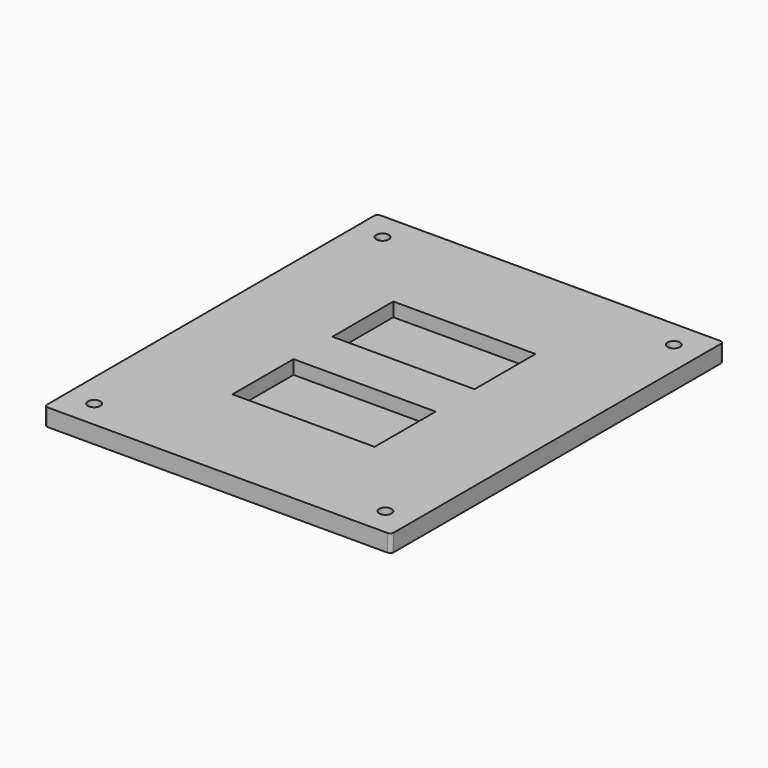
from build123d import *

# Parameters (mm, degrees)
BOX041_W          = 41
BOX041_H          = 22
BOX041_DEPTH      = 10
CYLINDER018_R     = 1.8
CYLINDER018_DEPTH = 6.6
ARRAY016_X_COUNT  = 2
ARRAY016_X_PITCH  = 84
ARRAY016_Y_COUNT  = 2
ARRAY016_Y_PITCH  = 104
BOX042_W          = 41
BOX042_H          = 22
BOX042_DEPTH      = 10
BOX040_W          = 100
BOX040_H          = 120
BOX040_DEPTH      = 5
FILLET008_R       = 1


with BuildPart() as obj1:
    # Box041 → Box041 (new body)
    with BuildSketch(Plane(origin=(-20.5, -9, -11), x_dir=(1, 0, 0), z_dir=(0, 0, 1))):
        with Locations((20.5, 11)):
            Rectangle(BOX041_W, BOX041_H)
    extrude(amount=BOX041_DEPTH)


with BuildPart() as cone:
    # Cone → Cone (revolve)
    with BuildSketch(Plane.XZ):
        Polygon((0, 0), (2.6, 0), (1.8, 1.5), (0, 1.5), align=None)
    revolve(axis=Axis((0, 0, 0), (0, 0, 1)))


with BuildPart() as magnet_stand_cube_hole_array_clone:
    # Cylinder018 → Cylinder018 (new body)
    with BuildSketch(Plane.XY):
        Circle(CYLINDER018_R)
    extrude(amount=CYLINDER018_DEPTH)

    # Fusion005004012: union Cone
    add(cone.part)

    # Array016 X: magnet stand cube hole array clone ×2


with BuildPart() as magnet_stand_cube_hole_array_clone_1:
    add(magnet_stand_cube_hole_array_clone.part)
    with Locations(*[(i * ARRAY016_X_PITCH, 0, 0) for i in range(1, ARRAY016_X_COUNT)]):
        add(magnet_stand_cube_hole_array_clone.part)

    # Array016 Y: magnet stand cube hole array clone ×2


with BuildPart() as magnet_stand_cube_hole_array_clone_2:
    add(magnet_stand_cube_hole_array_clone_1.part)
    with Locations(*[(0, i * ARRAY016_Y_PITCH, 0) for i in range(1, ARRAY016_Y_COUNT)]):
        add(magnet_stand_cube_hole_array_clone_1.part)


with BuildPart() as magnet_stand_cube_hole_array_clone_3:
    # Array016 placement: moved
    add(magnet_stand_cube_hole_array_clone_2.part.moved(Location((-42, -32, -12))))


with BuildPart() as obj2:
    # Box042 → Box042 (new body)
    with BuildSketch(Plane(origin=(-20.5, 27, -11), x_dir=(1, 0, 0), z_dir=(0, 0, 1))):
        with Locations((20.5, 11)):
            Rectangle(BOX042_W, BOX042_H)
    extrude(amount=BOX042_DEPTH)

    # Fusion005004011: union obj1, magnet stand cube hole array clone
    add(obj1.part)
    add(magnet_stand_cube_hole_array_clone_3.part)


with BuildPart() as obj3:
    # Box040 → Box040 (new body)
    with BuildSketch(Plane(origin=(-50, -40, -12), x_dir=(1, 0, 0), z_dir=(0, 0, 1))):
        with Locations((50, 60)):
            Rectangle(BOX040_W, BOX040_H)
    extrude(amount=BOX040_DEPTH)

    # Fillet008
    fillet008_edges = [obj3.edges().sort_by_distance(p)[0] for p in [
        (-50, -40, -9.5),
        (-50, 80, -9.5),
        (50, -40, -9.5),
        (50, 80, -9.5),
    ]]
    fillet(fillet008_edges, radius=FILLET008_R)

    # Cut002003010: cut obj2
    add(obj2.part, mode=Mode.SUBTRACT)


solid = obj3.part
